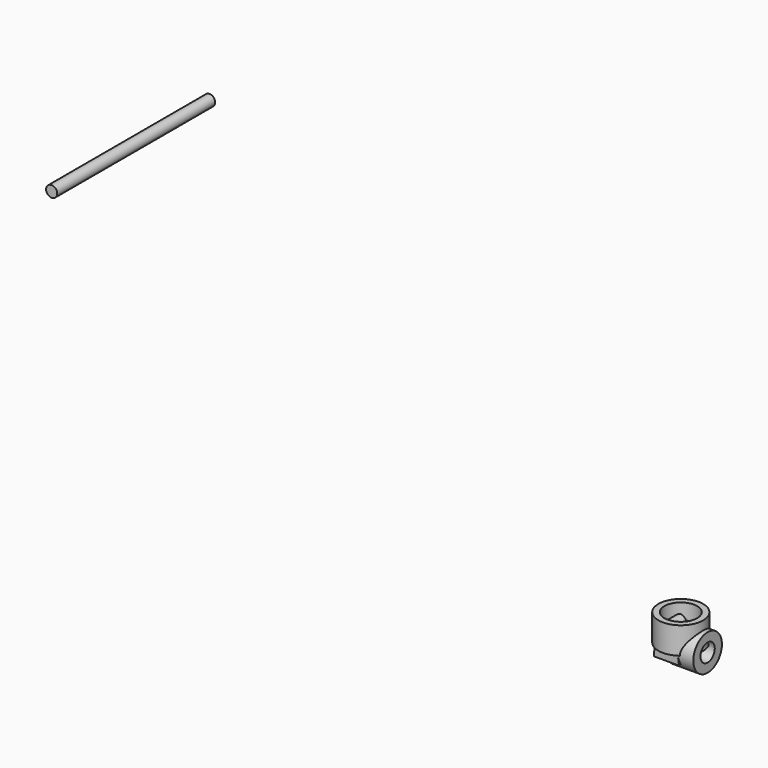
from build123d import *

# Parameters (mm, degrees)
F0_R     = 0.625
F1_DEPTH = 22.08292
F2_R     = 2.5
F2_R_2   = 1.834161
F3_DEPTH = 3
F4_R     = 2
F4_R_2   = 1
F5_DEPTH = 3
F6_R     = 0.60531
F7_DEPTH = 2


with BuildPart() as f1:
    # F0 (on Front) → F1 (new body)
    with BuildSketch(Plane.XZ):
        with Locations((-52.720462, 36.268073)):
            Circle(F0_R)
    extrude(amount=F1_DEPTH)


with BuildPart() as f3:
    # F2 (on Top) → F3 (new body)
    with BuildSketch(Plane.XY):
        Circle(F2_R)
        Circle(F2_R_2, mode=Mode.SUBTRACT)
    extrude(amount=F3_DEPTH)


with BuildPart() as f5:
    # F4 (on Right) → F5 (new body)
    with BuildSketch(Plane.YZ):
        Circle(F4_R)
        Circle(F4_R_2, mode=Mode.SUBTRACT)
    extrude(amount=F5_DEPTH)


with BuildPart() as f7:
    # F6 (on Front) → F7 (new body)
    with BuildSketch(Plane.XZ):
        with BuildLine():
            add(Edge.make_bspline(
                [(-1.4, -1), (-1.4, 1.76), (0.16, 3.84), (1.08, 1.76), (1.4, -1)],
                knots=[0, 0, 0, 0, 4.049691, 8.099382, 8.099382, 8.099382, 8.099382], degree=3))
            Line((-1.4, -1), (1.4, -1))
        make_face()
        with Locations((0, 1.12)):
            Circle(F6_R, mode=Mode.SUBTRACT)
    extrude(amount=F7_DEPTH)


solid = Compound([f1.part, f3.part, f5.part, f7.part])
